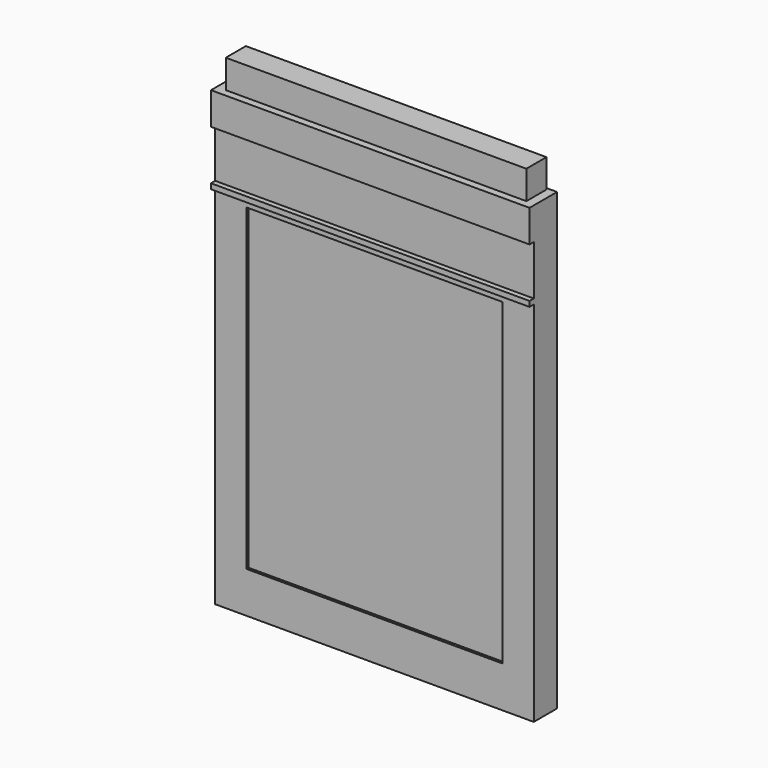
from build123d import *

# Parameters (mm, degrees)
F0_W     = 120.5
F0_H     = 172
F1_DEPTH = 11
F2_W     = 97
F2_H     = 120.4
F3_DEPTH = 1
F4_W     = 120.5
F4_H     = 2
F5_DEPTH = 2
F6_W     = 113.7
F6_H     = 9.5
F7_DEPTH = 10.8
F8_W     = 120.5
F8_H     = 12.2
F9_DEPTH = 2


with BuildPart() as f1:
    # F0 (on Front) → F1 (new body)
    with BuildSketch(Plane.XZ):
        with Locations((-66.222898, 72.284041)):
            Rectangle(F0_W, F0_H)
    extrude(amount=F1_DEPTH)

    # F2 (on face) → F3 (cut)
    with BuildSketch(Plane.XZ.offset(11)):
        with Locations((-66.222898, 62.084041)):
            Rectangle(F2_W, F2_H)
    extrude(amount=-F3_DEPTH, mode=Mode.SUBTRACT)

    # F4 (on face) → F5 (join)
    with BuildSketch(Plane.XZ.offset(11)):
        with Locations((-66.222898, 126.284041)):
            Rectangle(F4_W, F4_H)
    extrude(amount=F5_DEPTH)

    # F6 (on face) → F7 (join)
    with BuildSketch(Plane.XY.offset(158.284041)):
        with Locations((-66.222898, -5.5)):
            Rectangle(F6_W, F6_H)
    extrude(amount=F7_DEPTH)

    # F8 (on face) → F9 (join)
    with BuildSketch(Plane.XZ.offset(11)):
        with Locations((-66.222898, 152.184041)):
            Rectangle(F8_W, F8_H)
    extrude(amount=F9_DEPTH)


solid = f1.part
